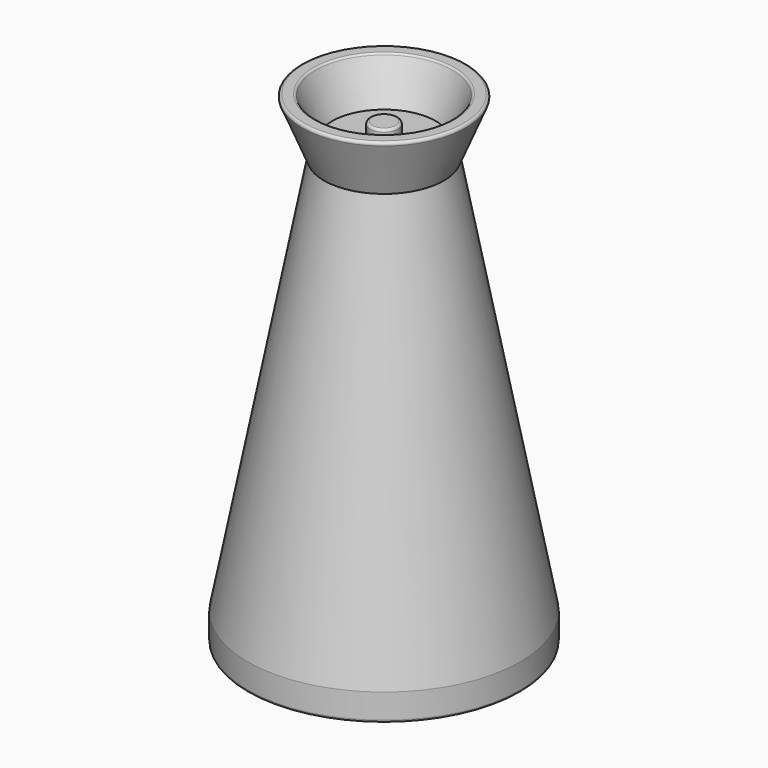
from build123d import *

# Parameters (mm, degrees)
F5_R = 5
F6_R = 5
F7_R = 5
F8_R = 5


with BuildPart() as f3:
    # F0 (on Front) → F3 (revolve)
    with BuildSketch(Plane.XZ):
        Polygon((-275.435489, 0), (0, 0), (0, 859.48139), (-120.990893, 859.48139), (-275.435489, 54.919829), align=None)
    revolve(axis=Axis((0, 0, 550.116003), (0, 0, 1)))

    # F2 (on Front) → F4 (revolve)
    with BuildSketch(Plane.XZ):
        Polygon((-168.598086, 974.709213), (-120.936424, 859.394491), (0, 859.254301), (0, 925.640881), (-28.12794, 925.640881), (-28.12794, 891.966522), (-104.616828, 891.966522), (-139.253303, 974.709213), align=None)
        Polygon((-168.598086, 974.709213), (-120.936424, 859.394491), (0, 859.254301), (0, 925.640881), (-28.12794, 925.640881), (-28.12794, 891.966522), (-104.616828, 891.966522), (-139.253303, 974.709213), align=None)
    revolve(axis=Axis((0, 0, 550.116003), (0, 0, 1)))

    # F5
    f5_edges = [f3.edges().sort_by_distance(p)[0] for p in [
        (168.598086, 0, 974.709213),
    ]]
    fillet(f5_edges, radius=F5_R)

    # F6
    f6_edges = [f3.edges().sort_by_distance(p)[0] for p in [
        (139.253303, 0, 974.709213),
    ]]
    fillet(f6_edges, radius=F6_R)

    # F7
    f7_edges = [f3.edges().sort_by_distance(p)[0] for p in [
        (28.12794, 0, 925.640881),
    ]]
    fillet(f7_edges, radius=F7_R)

    # F8
    f8_edges = [f3.edges().sort_by_distance(p)[0] for p in [
        (275.435489, 0, 0),
    ]]
    fillet(f8_edges, radius=F8_R)


solid = f3.part
